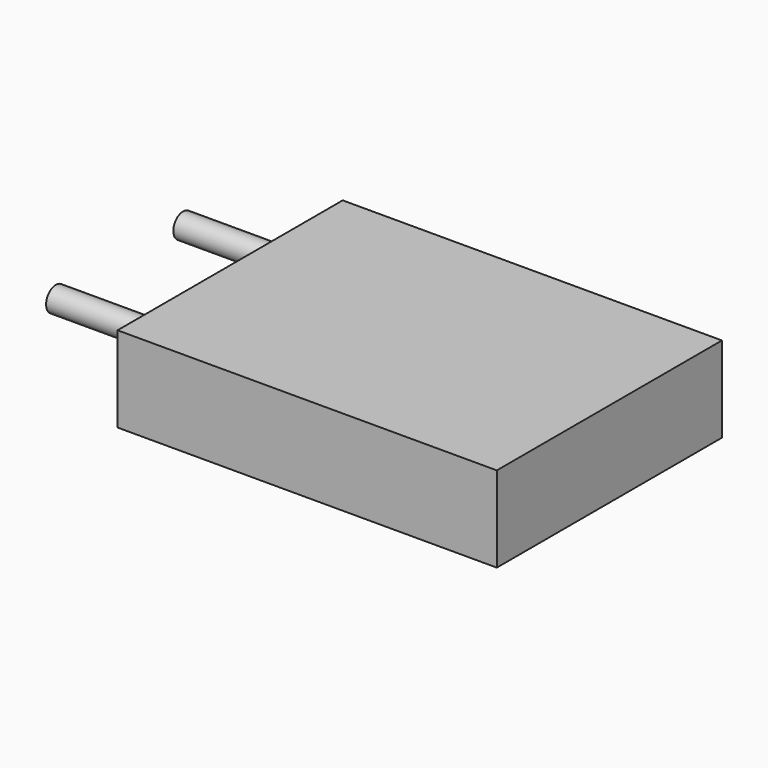
from build123d import *

# Parameters (mm, degrees)
SKETCH_W     = 31
SKETCH_H     = 23
PAD_DEPTH    = 3.5
SKETCH001_R  = 1
PAD001_DEPTH = 10


with BuildPart() as part:
    # Sketch → Pad (new body, symmetric)
    with BuildSketch(Plane.XY):
        Rectangle(SKETCH_W, SKETCH_H)
    extrude(amount=PAD_DEPTH, both=True)

    # Sketch001 (on Face4 of Pad) → Pad001 (join)
    with BuildSketch(Plane(origin=(-15.5, 0, 0), x_dir=(0, -1, 0), z_dir=(-1, 0, 0))):
        with Locations((-7.695191, 0)):
            Circle(SKETCH001_R)
        with Locations((5.304809, 0)):
            Circle(SKETCH001_R)
    extrude(amount=PAD001_DEPTH)


solid = part.part
